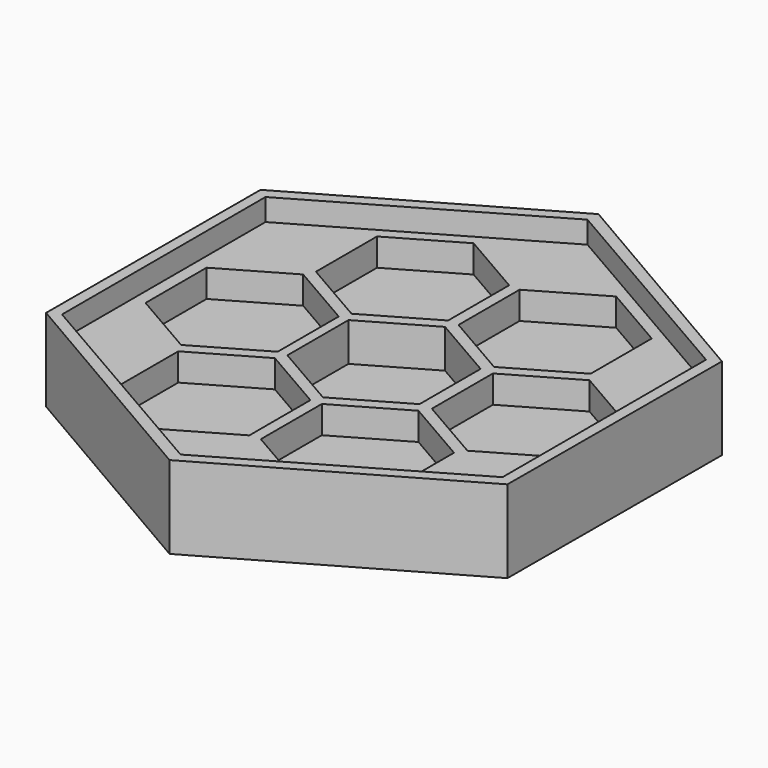
from build123d import *

# Parameters (mm, degrees)
F1_DEPTH = 15
F2_DEPTH = 11
F3_DEPTH = 4
F4_DEPTH = 2


with BuildPart() as f1:
    # F0 (on Top) → F1 (new body)
    with BuildSketch(Plane.XY):
        Polygon((42.0776976909, 24.1136342559), (0.1558290023, 48.4971722611), (-41.9218686887, 24.3835380051), (-42.0776976909, -24.1136342559), (-0.1558290023, -48.4971722611), (41.9218686887, -24.3835380051), align=None)
        Polygon((-40, 23.0940107676), (0, 46.1880215352), (40, 23.0940107676), (40, -23.0940107676), (0, -46.1880215352), (-40, -23.0940107676), align=None, mode=Mode.SUBTRACT)
    extrude(amount=F1_DEPTH)

    # F0 (on Top) → F2 (join)
    with BuildSketch(Plane.XY):
        Polygon((40, 23.0940107676), (0, 46.1880215352), (-40, 23.0940107676), (-40, -23.0940107676), (0, -46.1880215352), (40, -23.0940107676), align=None)
        Polygon((-12.8555934585, -8.7122082831), (-0.8555934585, -15.6404115134), (-0.8555934585, -29.4968179739), (-12.8555934585, -36.4250212042), (-24.8555934585, -29.4968179739), (-24.8555934585, -15.6404115134), align=None, mode=Mode.SUBTRACT)
        Polygon((13.1444065415, -8.6082997926), (25.1444065415, -15.5365030229), (25.1444065415, -29.3929094834), (13.1444065415, -36.3211127137), (1.1444065415, -29.3929094834), (1.1444065415, -15.5365030229), align=None, mode=Mode.SUBTRACT)
        Polygon((-25.7656060661, 13.8564064606), (-13.7656060661, 6.9282032303), (-13.7656060661, -6.9282032303), (-25.7656060661, -13.8564064606), (-37.7656060661, -6.9282032303), (-37.7656060661, 6.9282032303), align=None, mode=Mode.SUBTRACT)
        Polygon((-12.882803033, 36.4407306594), (-0.882803033, 29.5125274291), (-0.882803033, 15.6561209685), (-12.882803033, 8.7279177383), (-24.882803033, 15.6561209685), (-24.882803033, 29.5125274291), align=None, mode=Mode.SUBTRACT)
        Polygon((0, 13.8564064606), (12, 6.9282032303), (12, -6.9282032303), (0, -13.8564064606), (-12, -6.9282032303), (-12, 6.9282032303), align=None, mode=Mode.SUBTRACT)
        Polygon((13.117196967, 36.3054032585), (25.117196967, 29.3772000282), (25.117196967, 15.5207935677), (13.117196967, 8.5925903374), (1.117196967, 15.5207935677), (1.117196967, 29.3772000282), align=None, mode=Mode.SUBTRACT)
        Polygon((26.2343939339, 13.8564064606), (38.2343939339, 6.9282032303), (38.2343939339, -6.9282032303), (26.2343939339, -13.8564064606), (14.2343939339, -6.9282032303), (14.2343939339, 6.9282032303), align=None, mode=Mode.SUBTRACT)
    extrude(amount=F2_DEPTH)

    # F0 (on Top) → F3 (join)
    with BuildSketch(Plane.XY):
        Polygon((25.117196967, 15.5207935677), (25.117196967, 29.3772000282), (13.117196967, 36.3054032585), (1.117196967, 29.3772000282), (1.117196967, 15.5207935677), (13.117196967, 8.5925903374), align=None)
        Polygon((-0.882803033, 15.6561209685), (-0.882803033, 29.5125274291), (-12.882803033, 36.4407306594), (-24.882803033, 29.5125274291), (-24.882803033, 15.6561209685), (-12.882803033, 8.7279177383), align=None)
        Polygon((-13.7656060661, -6.9282032303), (-13.7656060661, 6.9282032303), (-25.7656060661, 13.8564064606), (-37.7656060661, 6.9282032303), (-37.7656060661, -6.9282032303), (-25.7656060661, -13.8564064606), align=None)
        Polygon((12, -6.9282032303), (12, 6.9282032303), (0, 13.8564064606), (-12, 6.9282032303), (-12, -6.9282032303), (0, -13.8564064606), align=None)
        Polygon((38.2343939339, -6.9282032303), (38.2343939339, 6.9282032303), (26.2343939339, 13.8564064606), (14.2343939339, 6.9282032303), (14.2343939339, -6.9282032303), (26.2343939339, -13.8564064606), align=None)
        Polygon((25.1444065415, -29.3929094834), (25.1444065415, -15.5365030229), (13.1444065415, -8.6082997926), (1.1444065415, -15.5365030229), (1.1444065415, -29.3929094834), (13.1444065415, -36.3211127137), align=None)
        Polygon((-0.8555934585, -29.4968179739), (-0.8555934585, -15.6404115134), (-12.8555934585, -8.7122082831), (-24.8555934585, -15.6404115134), (-24.8555934585, -29.4968179739), (-12.8555934585, -36.4250212042), align=None)
    extrude(amount=F3_DEPTH)

    # F4 (add): faces of the model
    f4_faces = [f1.faces().sort_by_distance(p)[0] for p in [
        (-25.7656060661, 0, 4),
        (-12.882803033, 22.5843241988, 4),
        (13.117196967, 22.448996798, 4),
        (26.2343939339, 0, 4),
        (13.1444065415, -22.4647062531, 4),
        (-12.8555934585, -22.5686147437, 4),
    ]]
    extrude(f4_faces, amount=F4_DEPTH)


solid = f1.part
